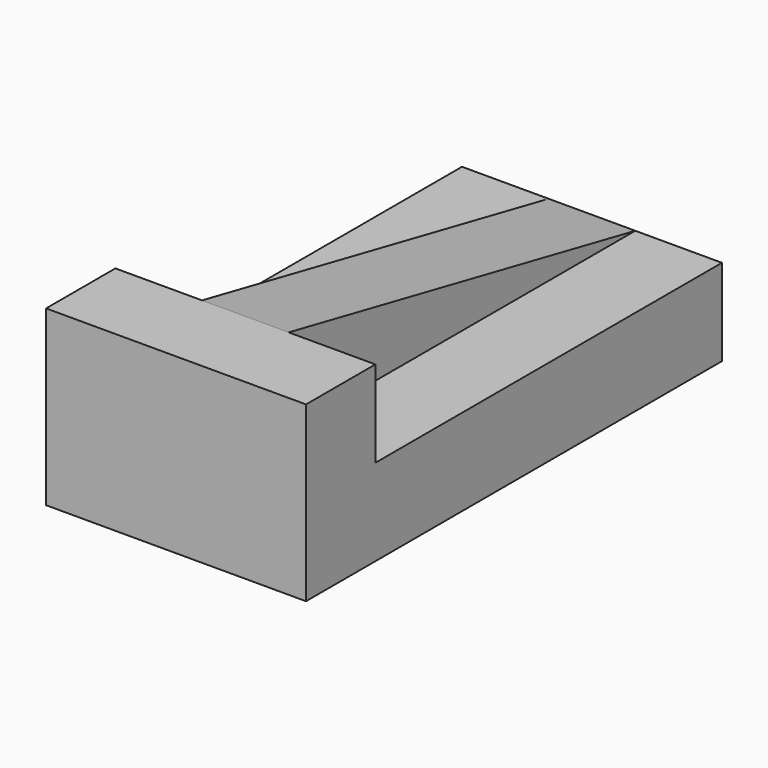
from build123d import *

# Parameters (mm, degrees)
F0_W     = 76.2
F0_H     = 25.4
F1_DEPTH = 152.4
F2_W     = 25.4
F2_H     = 127
F3_DEPTH = 25.4
F5_DEPTH = 25.4


with BuildPart() as f1:
    # F0 (on Front) → F1 (new body)
    with BuildSketch(Plane.XZ):
        with Locations((38.1, 12.7)):
            Rectangle(F0_W, F0_H)
    extrude(amount=-F1_DEPTH)

    # F2 (on face) → F3 (join)
    with BuildSketch(Plane.XY.offset(25.4)):
        Polygon((0, 25.4), (0, 0), (76.2, 0), (76.2, 25.4), (50.8, 25.4), (25.4, 25.4), align=None)
        with Locations((38.1, 88.9)):
            Rectangle(F2_W, F2_H)
    extrude(amount=F3_DEPTH)

    # F4 (on face) → F5 (cut)
    with BuildSketch(Plane.YZ.offset(50.8)):
        Polygon((152.4, 50.8), (25.4, 50.8), (152.4, 25.4), align=None)
    extrude(amount=-F5_DEPTH, mode=Mode.SUBTRACT)


solid = f1.part
